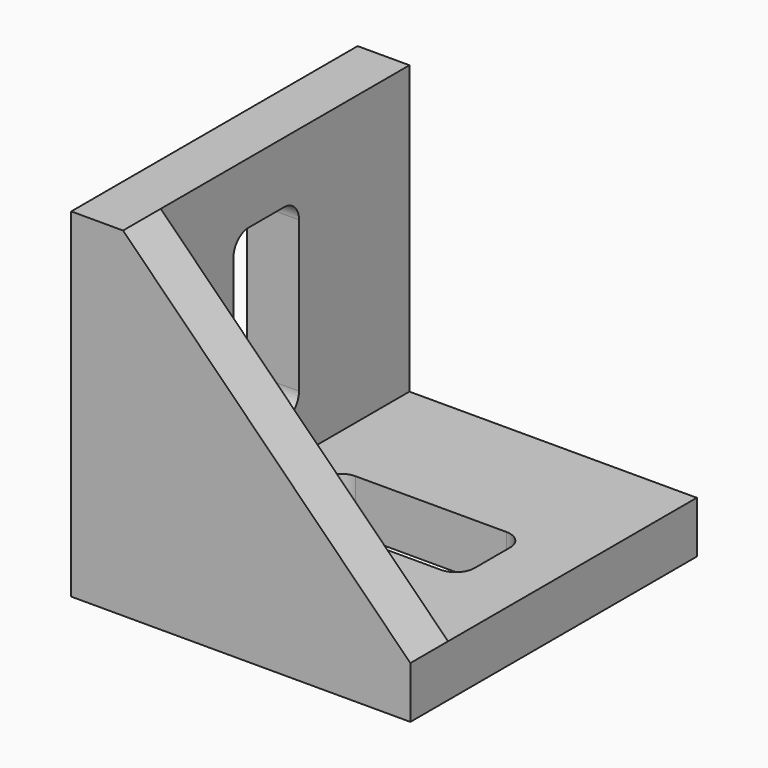
from build123d import *

# Parameters (mm, degrees)
F0_W     = 36
F0_H     = 38
F1_DEPTH = 36
F3_DEPTH = 38.001
F4_DEPTH = 33
F6_DEPTH = 36.001


with BuildPart() as f1:
    # F0 (on Top) → F1 (new body)
    with BuildSketch(Plane.XY):
        Rectangle(F0_W, F0_H)
        with BuildLine():
            ThreePointArc((-8.5, 2.35), (-7.914214, 3.764214), (-6.5, 4.35))
            Line((-6.5, 4.35), (9.5, 4.35))
            ThreePointArc((9.5, 4.35), (10.914214, 3.764214), (11.5, 2.35))
            Line((11.5, 2.35), (11.5, -2.35))
            ThreePointArc((11.5, -2.35), (10.914214, -3.764214), (9.5, -4.35))
            Line((9.5, -4.35), (-6.5, -4.35))
            ThreePointArc((-6.5, -4.35), (-7.914214, -3.764214), (-8.5, -2.35))
            Line((-8.5, -2.35), (-8.5, 2.35))
        make_face(mode=Mode.SUBTRACT)
    extrude(amount=F1_DEPTH)

    # F2 (on face) → F3 (cut, through all)
    with BuildSketch(Plane(origin=(0, 19, 0), x_dir=(-1, 0, 0), z_dir=(0, 1, 0))):
        Polygon((-18, 5.5), (12.5, 36), (-18, 36), align=None)
    extrude(amount=-F3_DEPTH, mode=Mode.SUBTRACT)

    # F2 (on face) → F4 (cut)
    with BuildSketch(Plane(origin=(0, 19, 0), x_dir=(-1, 0, 0), z_dir=(0, 1, 0))):
        Polygon((12.5, 5.5), (12.5, 36), (-18, 5.5), align=None)
    extrude(amount=-F4_DEPTH, mode=Mode.SUBTRACT)

    # F5 (on face) → F6 (cut, through all)
    with BuildSketch(Plane(origin=(-18, 0, 0), x_dir=(0, -1, 0), z_dir=(-1, 0, 0))):
        with BuildLine():
            Line((2.35, 29.5), (-2.35, 29.5))
            ThreePointArc((-2.35, 29.5), (-3.764214, 28.914214), (-4.35, 27.5))
            Line((-4.35, 27.5), (-4.35, 11.5))
            ThreePointArc((-4.35, 11.5), (-3.764214, 10.085786), (-2.35, 9.5))
            Line((-2.35, 9.5), (2.35, 9.5))
            ThreePointArc((2.35, 9.5), (3.764214, 10.085786), (4.35, 11.5))
            Line((4.35, 11.5), (4.35, 27.5))
            ThreePointArc((4.35, 27.5), (3.764214, 28.914214), (2.35, 29.5))
        make_face()
    extrude(amount=-F6_DEPTH, mode=Mode.SUBTRACT)


solid = f1.part
